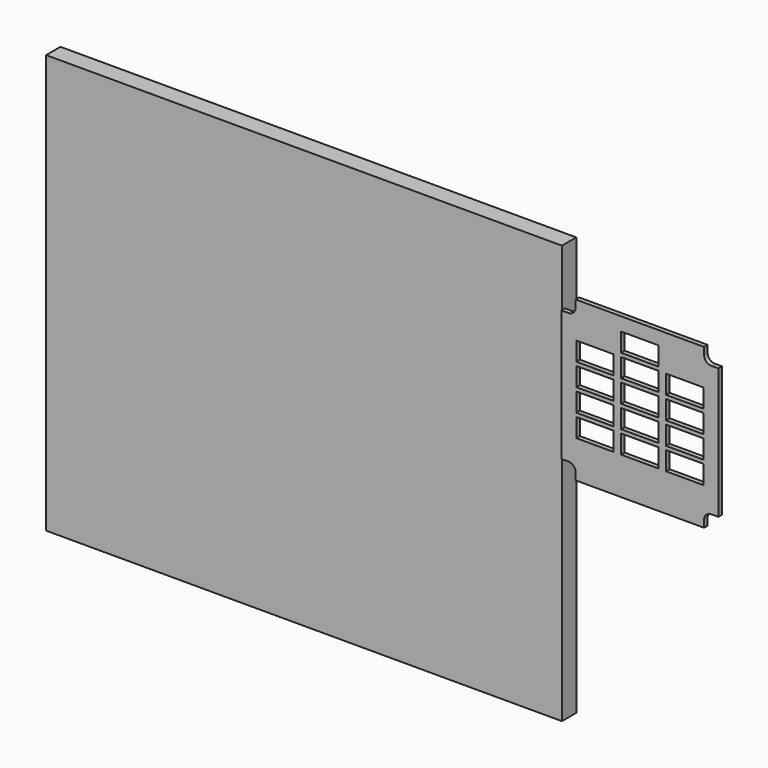
from build123d import *

# Parameters (mm, degrees)
F0_W     = 345
F0_H     = 280
F1_DEPTH = 12
F2_W     = 25
F2_H     = 12.5
F3_DEPTH = 3


with BuildPart() as f1:
    # F0 (on Front) → F1 (new body)
    with BuildSketch(Plane.XZ):
        Rectangle(F0_W, F0_H)
    extrude(amount=-F1_DEPTH)


with BuildPart() as f3:
    # F2 (on Front) → F3 (new body)
    with BuildSketch(Plane.XZ):
        with BuildLine():
            Line((269.9799974322, 113.2885825038), (184.0299974322, 113.2885825038))
            Line((184.0299974322, 113.2885825038), (184.0299974322, 108.5260825038))
            ThreePointArc((184.0299974322, 108.5260825038), (182.6350934776, 105.1584864584), (179.2674974322, 103.7635825038))
            Line((179.2674974322, 103.7635825038), (174.5049974322, 103.7635825038))
            Line((174.5049974322, 103.7635825038), (174.5049974322, 60.0385825038))
            Line((174.5049974322, 60.0385825038), (174.5049974322, 16.3135825038))
            Line((174.5049974322, 16.3135825038), (179.2674974322, 16.3135825038))
            ThreePointArc((179.2674974322, 16.3135825038), (182.6350934776, 14.9186785492), (184.0299974322, 11.5510825038))
            Line((184.0299974322, 11.5510825038), (184.0299974322, 6.7885825038))
            Line((184.0299974322, 6.7885825038), (269.9799974322, 6.7885825038))
            Line((269.9799974322, 6.7885825038), (269.9799974322, 11.5510825038))
            ThreePointArc((269.9799974322, 11.5510825038), (271.3749013868, 14.9186785492), (274.7424974322, 16.3135825038))
            Line((274.7424974322, 16.3135825038), (279.5049974322, 16.3135825038))
            Line((279.5049974322, 16.3135825038), (279.5049974322, 103.7635825038))
            Line((279.5049974322, 103.7635825038), (274.7424974322, 103.7635825038))
            ThreePointArc((274.7424974322, 103.7635825038), (271.3749013868, 105.1584864584), (269.9799974322, 108.5260825038))
            Line((269.9799974322, 108.5260825038), (269.9799974322, 113.2885825038))
        make_face()
        with Locations((197.0049974322, 38.0385825038)):
            Rectangle(F2_W, F2_H, mode=Mode.SUBTRACT)
        with Locations((197.0049974322, 53.0385825038)):
            Rectangle(F2_W, F2_H, mode=Mode.SUBTRACT)
        with Locations((227.0049974322, 38.0385825038)):
            Rectangle(F2_W, F2_H, mode=Mode.SUBTRACT)
        with Locations((227.0049974322, 53.0385825038)):
            Rectangle(F2_W, F2_H, mode=Mode.SUBTRACT)
        with Locations((257.0049974322, 38.0385825038)):
            Rectangle(F2_W, F2_H, mode=Mode.SUBTRACT)
        with Locations((257.0049974322, 53.0385825038)):
            Rectangle(F2_W, F2_H, mode=Mode.SUBTRACT)
        with Locations((197.0049974322, 68.0385825038)):
            Rectangle(F2_W, F2_H, mode=Mode.SUBTRACT)
        with Locations((197.0049974322, 83.0385825038)):
            Rectangle(F2_W, F2_H, mode=Mode.SUBTRACT)
        with Locations((227.0049974322, 68.0385825038)):
            Rectangle(F2_W, F2_H, mode=Mode.SUBTRACT)
        with Locations((227.0049974322, 83.0385825038)):
            Rectangle(F2_W, F2_H, mode=Mode.SUBTRACT)
        Polygon((214.5049974322, 91.7885825038), (214.5049974322, 104.2885825038), (227.0049974322, 104.2885825038), (239.5049974322, 104.2885825038), (239.5049974322, 91.7885825038), align=None, mode=Mode.SUBTRACT)
        with Locations((257.0049974322, 68.0385825038)):
            Rectangle(F2_W, F2_H, mode=Mode.SUBTRACT)
        with Locations((257.0049974322, 83.0385825038)):
            Rectangle(F2_W, F2_H, mode=Mode.SUBTRACT)
    extrude(amount=F3_DEPTH)


solid = Compound([f1.part, f3.part])
